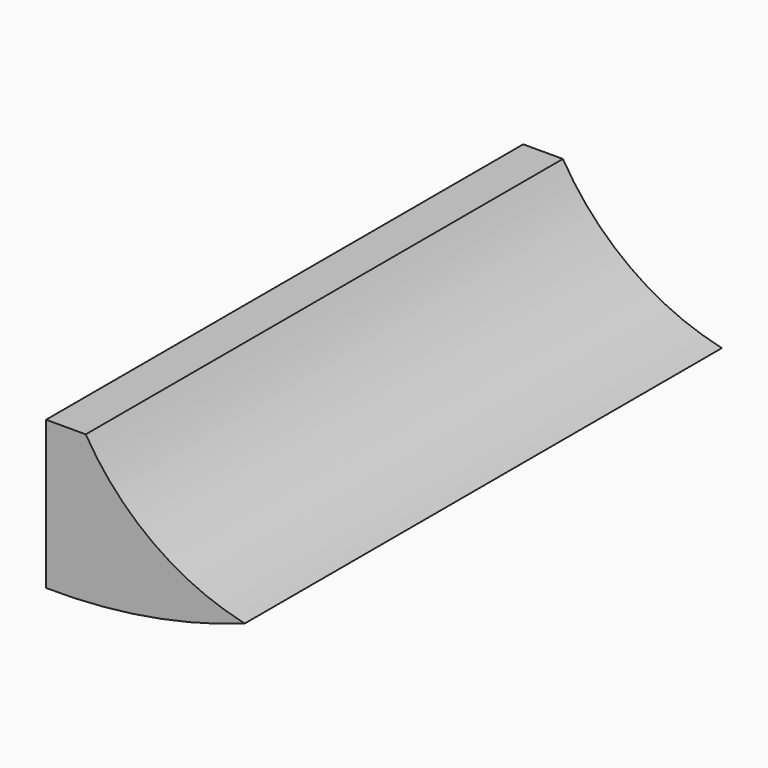
from build123d import *

# Parameters (mm, degrees)
F2_DEPTH = 41.275


with BuildPart() as f2:
    # F1 (on Front) → F2 (new body, symmetric)
    with BuildSketch(Plane.XZ):
        with BuildLine():
            Line((-29.57755, -46.58304), (-35.067678, -46.58304))
            Line((-35.067678, -46.58304), (-35.067678, -67.093486))
            ThreePointArc((-35.067678, -67.093486), (-21.107262, -66.02714), (-7.565468, -62.470437))
            ThreePointArc((-7.565468, -62.470437), (-20.210666, -56.797801), (-29.57755, -46.58304))
        make_face()
    extrude(amount=F2_DEPTH, both=True)


solid = f2.part
